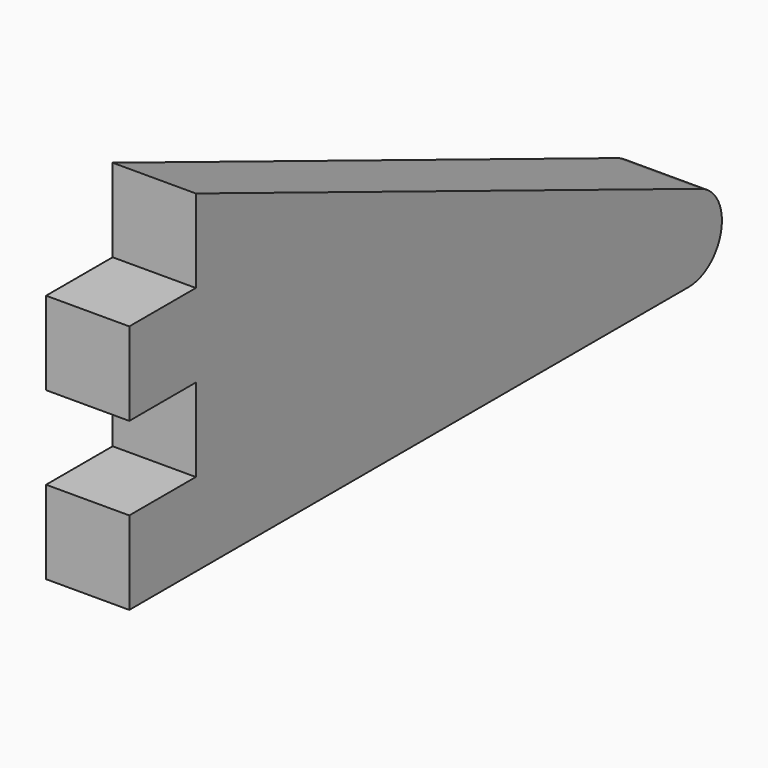
from build123d import *

# Parameters (mm, degrees)
F0_W     = 4
F0_H     = 4
F1_DEPTH = 4


with BuildPart() as f1:
    # F0 (on Right) → F1 (new body)
    with BuildSketch(Plane.YZ):
        with BuildLine():
            Line((4, 4), (4, 0))
            Line((4, 0), (33.614835, 0))
            ThreePointArc((33.614835, 0), (35.578748, 1.621785), (34.357617, 3.856953))
            Line((34.357617, 3.856953), (4, 16))
            Line((4, 16), (4, 12))
            Line((4, 12), (4, 8))
            Line((4, 8), (4, 4))
        make_face()
        with Locations((2, 10)):
            Rectangle(F0_W, F0_H)
        with Locations((2, 2)):
            Rectangle(F0_W, F0_H)
    extrude(amount=F1_DEPTH)


solid = f1.part
